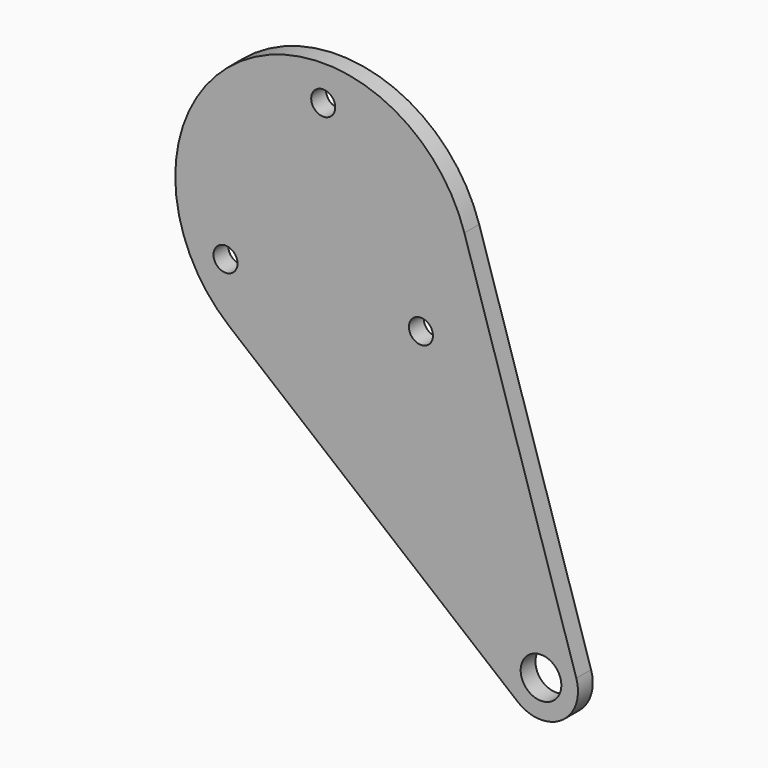
from build123d import *

# Parameters (mm, degrees)
F0_R     = 5.5
F0_R_2   = 3.25
F1_DEPTH = 5


with BuildPart() as f1:
    # F0 (on Front) → F1 (new body)
    with BuildSketch(Plane.XZ):
        with BuildLine():
            Line((68.416541, -84.14495), (38.15498, 12.008228))
            ThreePointArc((38.15498, 12.008228), (-22.392908, 33.144497), (-25.379985, -30.916927))
            Line((-25.379985, -30.916927), (52.5328, -94.876239))
            ThreePointArc((52.5328, -94.876239), (64.476024, -95.433131), (68.416541, -84.14495))
        make_face()
        with Locations((58.877797, -87.147007)):
            Circle(F0_R, mode=Mode.SUBTRACT)
        with Locations((-26.413775, -15.25)):
            Circle(F0_R_2, mode=Mode.SUBTRACT)
        with Locations((0, 30.5)):
            Circle(F0_R_2, mode=Mode.SUBTRACT)
        with Locations((26.413775, -15.25)):
            Circle(F0_R_2, mode=Mode.SUBTRACT)
    extrude(amount=F1_DEPTH)


solid = f1.part
